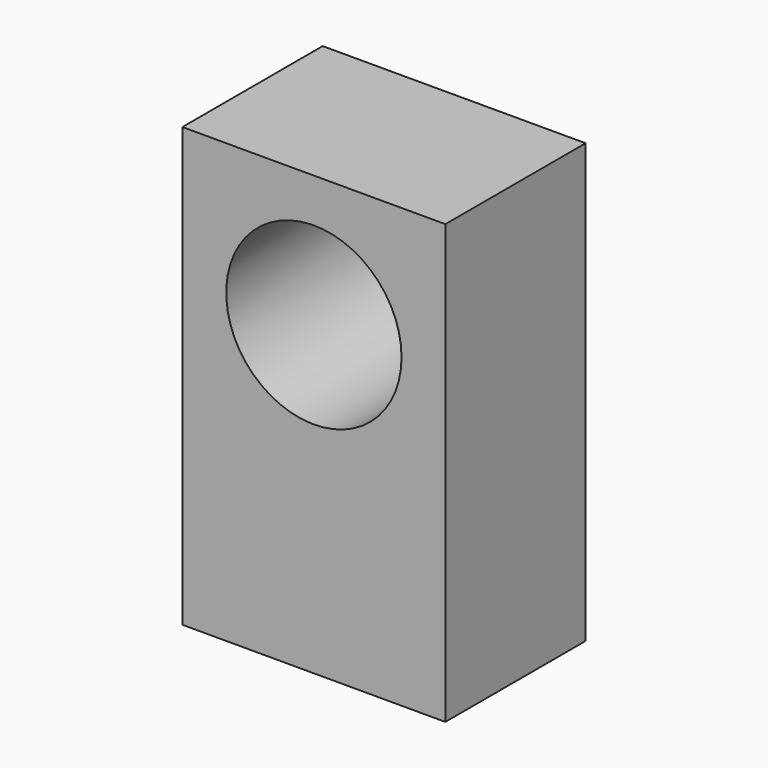
from build123d import *

# Parameters (mm, degrees)
F0_W     = 30
F0_H     = 20
F1_DEPTH = 50
F2_R     = 10
F3_DEPTH = 25


with BuildPart() as f1:
    # F0 (on Top) → F1 (new body)
    with BuildSketch(Plane.XY):
        Rectangle(F0_W, F0_H)
    extrude(amount=F1_DEPTH)

    # F2 (on face) → F3 (cut)
    with BuildSketch(Plane.XZ.offset(10)):
        with Locations((0, 35)):
            Circle(F2_R)
    extrude(amount=-F3_DEPTH, mode=Mode.SUBTRACT)


solid = f1.part
